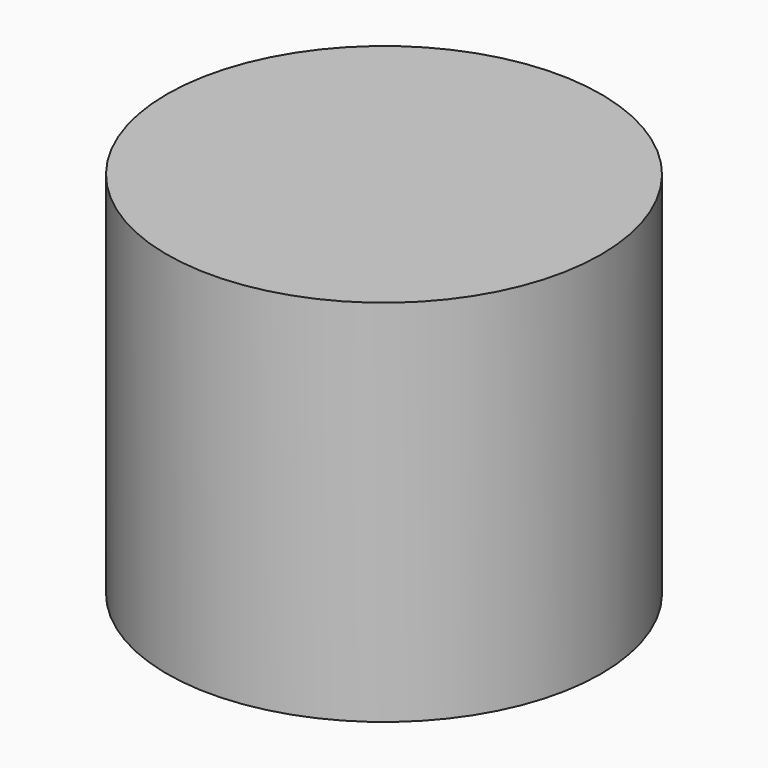
from build123d import *

# Parameters (mm, degrees)
SKETCH026_R             = 10
PAD024_DEPTH            = 17
SKETCH028_R             = 9
POCKET002_DEPTH         = 4.2
SKETCH027_R             = 3
POCKET003_DEPTH         = 11.8
BODY011_PLACEMENT_ANGLE = 180


with BuildPart() as part:
    # Sketch026 → Pad024 (new body)
    with BuildSketch(Plane.XY):
        Circle(SKETCH026_R)
    extrude(amount=PAD024_DEPTH)

    # Sketch028 (on Face2 of Pad024) → Pocket002 (cut)
    with BuildSketch(Plane(origin=(0, 0, 0), x_dir=(1, 0, 0), z_dir=(0, 0, -1))):
        Circle(SKETCH028_R)
    extrude(amount=-POCKET002_DEPTH, mode=Mode.SUBTRACT)

    # Sketch027 (on Face5 of Pocket002) → Pocket003 (cut)
    with BuildSketch(Plane(origin=(0, 0, 4.2), x_dir=(1, 0, 0), z_dir=(0, 0, -1))):
        Circle(SKETCH027_R)
    extrude(amount=-POCKET003_DEPTH, mode=Mode.SUBTRACT)


with BuildPart() as part_1:
    # Body011 placement: moved
    add(part.part.moved(Location((6.5, 10, 13))).rotate(Axis((6.5, 10, 13), (0, 0, 1)), BODY011_PLACEMENT_ANGLE))


solid = part_1.part
